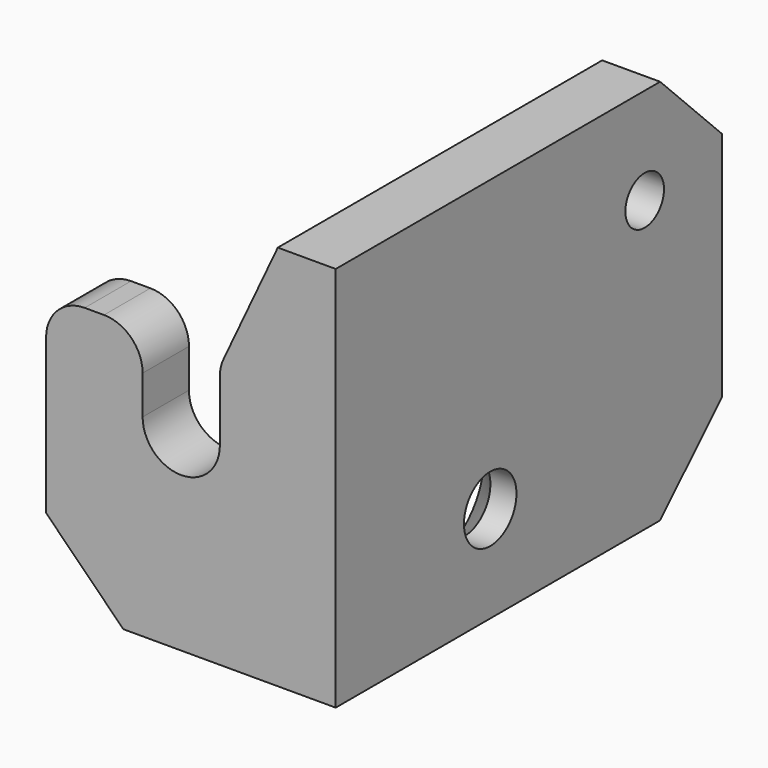
from build123d import *

# Parameters (mm, degrees)
PAD_DEPTH        = 20
POCKET_DEPTH     = 25.001
HOLE_D           = 3.4
HOLE_DEPTH       = 25
HOLE_CSINK_D     = 6.7
HOLE_CSINK_ANGLE = 90
SKETCH029_R      = 1.25
HOLE002_DEPTH    = 3.001
CHAMFER003_SIZE  = 4


with BuildPart() as part:
    # Sketch → Pad (new body)
    with BuildSketch(Plane.XY):
        Polygon((0, 0), (0, 25), (-3, 25), (-3, 3), (-15, 3), (-15, 0), align=None)
    extrude(amount=PAD_DEPTH)

    # Sketch027 → Pocket (cut, through all)
    with BuildSketch(Plane.XZ):
        with BuildLine():
            Line((-3, 20), (-5.811082, 14))
            ThreePointArc((-5.811082, 14), (-5.952199, 13.58613), (-6, 13.151483))
            Line((-6, 13.151483), (-6, 10))
            ThreePointArc((-10, 10), (-8, 8), (-6, 10))
            Line((-10, 10), (-10, 12))
            ThreePointArc((-10, 12), (-10.585786, 13.414214), (-12, 14))
            Line((-12, 14), (-13, 14))
            ThreePointArc((-13, 14), (-14.414214, 13.414214), (-15, 12))
            Line((-15, 12), (-15, 20))
            Line((-15, 20), (-3, 20))
        make_face()
    extrude(amount=-POCKET_DEPTH, mode=Mode.SUBTRACT)

    # Hole
    with Locations(Plane(origin=(-3, 0, 0), x_dir=(0, 1, 0), z_dir=(-1, 0, 0))):
        with Locations((10, -5)):
            CounterSinkHole(HOLE_D / 2, HOLE_CSINK_D / 2, depth=HOLE_DEPTH, counter_sink_angle=HOLE_CSINK_ANGLE)

    # Sketch029 → Hole002 (cut, through all)
    with BuildSketch(Plane.YZ.offset(-3)):
        with Locations((20, 15)):
            Circle(SKETCH029_R)
    extrude(amount=HOLE002_DEPTH, mode=Mode.SUBTRACT)

    # Chamfer003
    chamfer003_edges = [part.edges().sort_by_distance(p)[0] for p in [
        (-15, 1.5, 0),
        (-1.5, 25, 0),
        (-1.5, 25, 20),
    ]]
    chamfer(chamfer003_edges, length=CHAMFER003_SIZE)


solid = part.part
